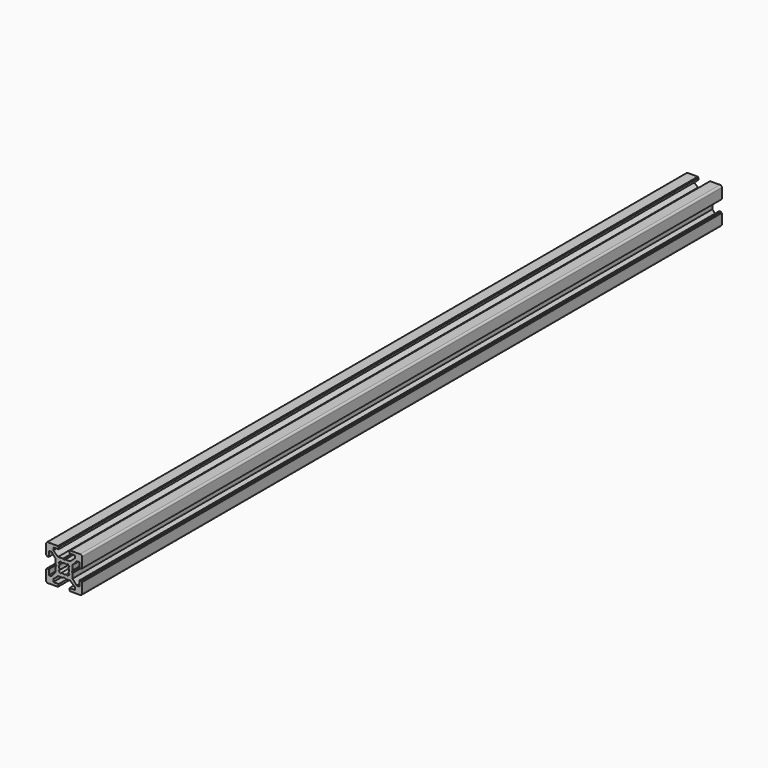
from build123d import *

# Parameters (mm, degrees)
PAD001003_DEPTH       = 445
POCKET020_DEPTH       = 445
POLARPATTERN001_COUNT = 4
POCKET021_DEPTH       = 445


with BuildPart() as part:
    # Sketch025 → Pad001003 (new body)
    with BuildSketch(Plane.XZ):
        with BuildLine():
            Line((-9, 10), (9, 10))
            ThreePointArc((10, 9), (9.707107, 9.707107), (9, 10))
            Line((10, 9), (10, -9))
            ThreePointArc((9, -10), (9.707107, -9.707107), (10, -9))
            Line((9, -10), (-9, -10))
            ThreePointArc((-10, -9), (-9.707107, -9.707107), (-9, -10))
            Line((-10, -9), (-10, 9))
            ThreePointArc((-9, 10), (-9.707107, 9.707107), (-10, 9))
        make_face()
    extrude(amount=PAD001003_DEPTH)

    # Sketch027 (on Face10 of Pad001003) → Pocket020 (cut)
    with BuildSketch(Plane.XZ.offset(445)):
        Polygon((-3.4, 10), (-3.4, 9.6), (-3, 9.6), (-3, 8.5), (-6, 8.5), (-6, 7), (-3.35, 4.7), (-0.65, 4.7), (0, 4.3), (0.65, 4.7), (3.35, 4.7), (6, 7), (6, 8.5), (3, 8.5), (3, 9.6), (3.4, 9.6), (3.4, 10), align=None)
    pocket020 = extrude(amount=-POCKET020_DEPTH, mode=Mode.SUBTRACT)

    # PolarPattern001: Pocket020 ×4 about axis
    polarpattern001_axis = Axis((0, -445, 0), (0, -1, 0))
    for i in range(1, POLARPATTERN001_COUNT):
        add(pocket020.rotate(polarpattern001_axis, i * 360 / POLARPATTERN001_COUNT), mode=Mode.SUBTRACT)

    # Sketch026 (on Face4 of PolarPattern001) → Pocket021 (cut)
    with BuildSketch(Plane.XZ.offset(445)):
        with BuildLine():
            ThreePointArc((1.340499, 2.401159), (0, 2.75), (-1.340499, 2.401159))
            Line((-1.944544, 3.005204), (-1.340499, 2.401159))
            Line((-3.005204, 1.944544), (-1.944544, 3.005204))
            Line((-2.401159, 1.340499), (-3.005204, 1.944544))
            ThreePointArc((-2.401159, 1.340499), (-2.75, 0), (-2.401159, -1.340499))
            Line((-3.005204, -1.944544), (-2.401159, -1.340499))
            Line((-1.944544, -3.005204), (-3.005204, -1.944544))
            Line((-1.340499, -2.401159), (-1.944544, -3.005204))
            ThreePointArc((-1.340499, -2.401159), (0, -2.75), (1.340499, -2.401159))
            Line((1.944544, -3.005204), (1.340499, -2.401159))
            Line((3.005204, -1.944544), (1.944544, -3.005204))
            Line((2.401159, -1.340499), (3.005204, -1.944544))
            ThreePointArc((2.401159, -1.340499), (2.75, 0), (2.401159, 1.340499))
            Line((2.401159, 1.340499), (3.005204, 1.944544))
            Line((3.005204, 1.944544), (1.944544, 3.005204))
            Line((1.944544, 3.005204), (1.340499, 2.401159))
        make_face()
    extrude(amount=-POCKET021_DEPTH, mode=Mode.SUBTRACT)


solid = part.part
